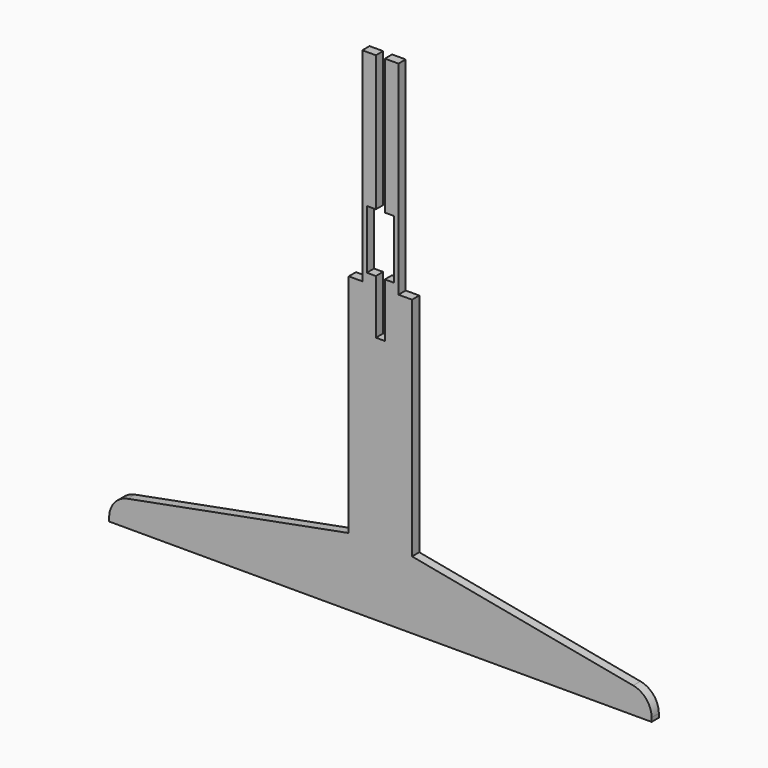
from build123d import *

# Parameters (mm, degrees)
F1_DEPTH      = 1
F1_DEPTH_BACK = 1
F2_R          = 5


with BuildPart() as f1:
    # F0 (on Front) → F1 (new body, two sides)
    with BuildSketch(Plane.XZ) as f1_sk:
        Polygon((1, 55), (-1, 55), (-1, 67), (-3, 67), (-3, 80), (-1, 80), (-1, 110), (-4, 110), (-4, 65), (-7, 65), (-7, 15), (-60, 4.999998), (-60, 0), (60, 0), (60, 5), (7, 15), (7, 65), (4, 65), (4, 110), (1, 110), (1, 80), (3, 80), (3, 67), (1, 67), align=None)
    extrude(amount=F1_DEPTH)
    extrude(f1_sk.sketch, amount=-F1_DEPTH_BACK)

    # F2
    f2_edges = [f1.edges().sort_by_distance(p)[0] for p in [
        (-60, 0, 4.999998),
        (60, 0, 5),
    ]]
    fillet(f2_edges, radius=F2_R)


solid = f1.part
